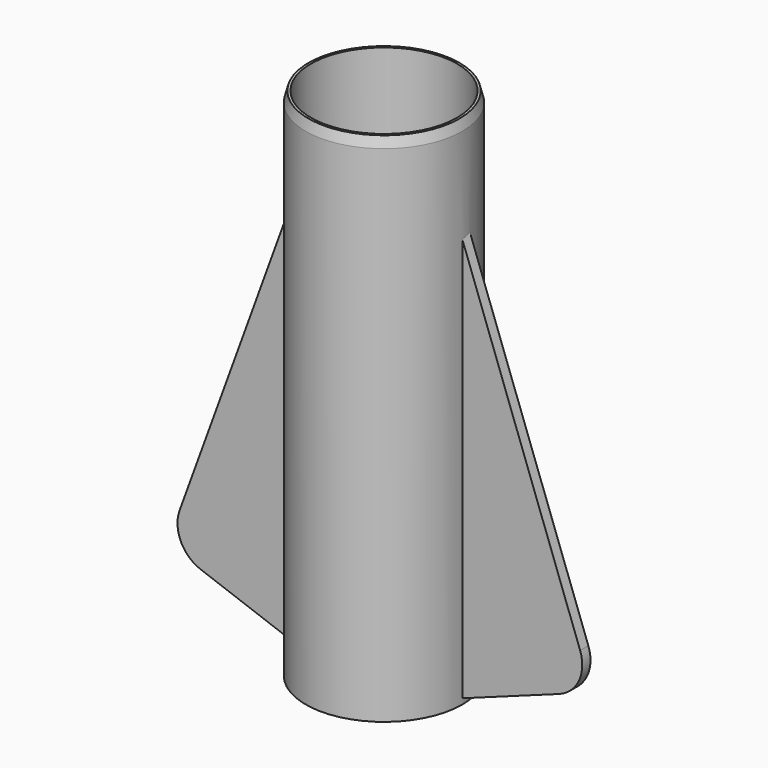
from build123d import *

# Parameters (mm, degrees)
SKETCH_R           = 7.6
PAD_DEPTH          = 50
PAD001_DEPTH       = 1
POLARPATTERN_COUNT = 2
CHAMFER_ANGLE      = 15
CHAMFER_SIZE       = 1
SKETCH002_R        = 7.1
POCKET_DEPTH       = 50.001


with BuildPart() as part:
    # Sketch → Pad (new body)
    with BuildSketch(Plane.XY):
        Circle(SKETCH_R)
    extrude(amount=PAD_DEPTH)

    # Sketch001 (on DatumPlane) → Pad001 (join)
    with BuildSketch(Plane(origin=(7.5, 0, 0), x_dir=(-1, 0, 0), z_dir=(0, 1, 0))):
        with BuildLine():
            Line((0.5, 0.321717), (0.5, 41.435605))
            Line((-11.54404, 8.344877), (0.5, 41.435605))
            ThreePointArc((-11.54404, 8.344877), (-11.429864, 5.729814), (-9.5, 3.961419))
            Line((-9.5, 3.961419), (0.5, 0.321717))
        make_face()
    pad001 = extrude(amount=PAD001_DEPTH)

    # PolarPattern: Pad001 ×2 about axis
    polarpattern_axis = Axis((0, 0, 0), (0, 0, 1))
    for i in range(1, POLARPATTERN_COUNT):
        add(pad001.rotate(polarpattern_axis, i * 360 / POLARPATTERN_COUNT))

    # Chamfer
    chamfer_edges = [part.edges().sort_by_distance(p)[0] for p in [
        (-7.6, 0, 50),
    ]]
    chamfer_side = part.faces().sort_by_distance((-7.6, 0, 49.45575))[0]
    chamfer(chamfer_edges, length=CHAMFER_SIZE, angle=CHAMFER_ANGLE, reference=chamfer_side)

    # Sketch002 (on Face12 of Chamfer) → Pocket (cut, through all)
    with BuildSketch(Plane.XY.offset(50)):
        Circle(SKETCH002_R)
    extrude(amount=-POCKET_DEPTH, mode=Mode.SUBTRACT)


solid = part.part
